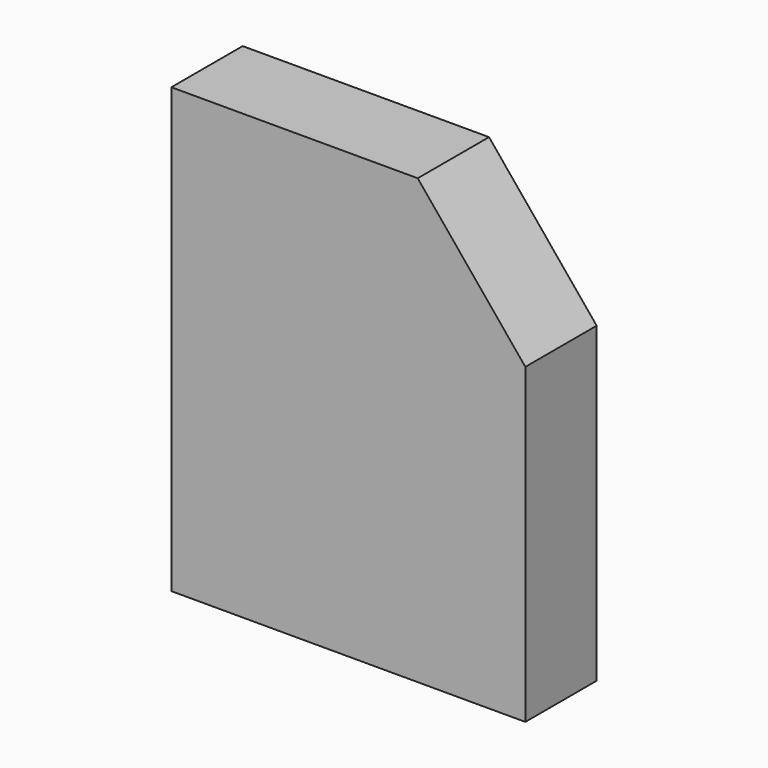
from build123d import *

# Parameters (mm, degrees)
F1_DEPTH = 5
F2_DEPTH = 7.5


with BuildPart() as f1:
    # F0 (on Front) → F1 (new body, symmetric)
    with BuildSketch(Plane.XZ):
        Polygon((-22.877095, 37.101958), (-22.877095, -50.006986), (46.634078, -50.006986), (46.634078, 11.370306), (25.504836, 37.101958), align=None)
    extrude(amount=F1_DEPTH, both=True)

    # F1_face (on face) → F2 (join, symmetric)
    with BuildSketch(Plane(origin=(10.575837, -5, -8.096655), x_dir=(1, 0, 0), z_dir=(0, -1, 0))):
        Polygon((14.928999, 45.198613), (-33.452932, 45.198613), (-33.452932, -41.910331), (36.058241, -41.910331), (36.058241, 19.466961), align=None)
    extrude(amount=F2_DEPTH, both=True)


solid = f1.part
